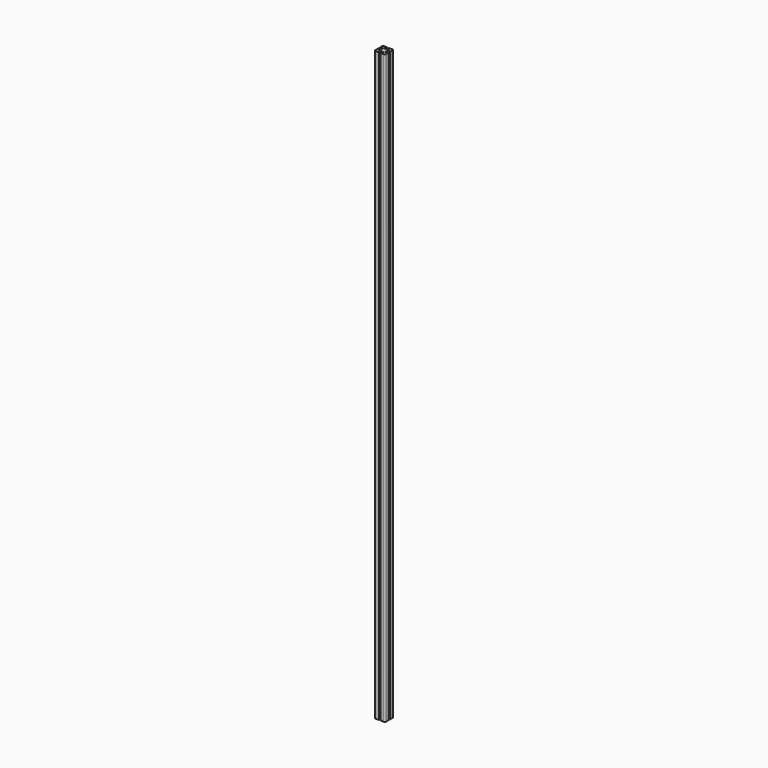
from build123d import *

# Parameters (mm, degrees)
F1_DEPTH = 2200


with BuildPart() as f1:
    # F0 (on Top) → F1 (new body)
    with BuildSketch(Plane.XY):
        with BuildLine():
            Line((-2.5, 20), (-15, 20))
            ThreePointArc((-15, 20), (-18.535534, 18.535534), (-20, 15))
            Line((-20, 15), (-20, 2.5))
            Line((-20, 2.5), (-15, 2.5))
            Line((-15, 2.5), (-15, 7.5))
            Line((-15, 7.5), (-10, 7.5))
            Line((-10, 7.5), (-10, -7.5))
            Line((-10, -7.5), (-15, -7.5))
            Line((-15, -7.5), (-15, -2.5))
            Line((-15, -2.5), (-20, -2.5))
            Line((-20, -2.5), (-20, -15))
            ThreePointArc((-20, -15), (-18.535534, -18.535534), (-15, -20))
            Line((-15, -20), (-2.5, -20))
            Line((-2.5, -20), (-2.5, -15))
            Line((-2.5, -15), (-7.5, -15))
            Line((-7.5, -15), (-7.5, -10))
            Line((-7.5, -10), (7.5, -10))
            Line((7.5, -10), (7.5, -15))
            Line((7.5, -15), (2.5, -15))
            Line((2.5, -15), (2.5, -20))
            Line((2.5, -20), (15, -20))
            ThreePointArc((15, -20), (18.535534, -18.535534), (20, -15))
            Line((20, -15), (20, -2.5))
            Line((20, -2.5), (15, -2.5))
            Line((15, -2.5), (15, -7.5))
            Line((15, -7.5), (10, -7.5))
            Line((10, -7.5), (10, 7.5))
            Line((10, 7.5), (15, 7.5))
            Line((15, 7.5), (15, 2.5))
            Line((15, 2.5), (20, 2.5))
            Line((20, 2.5), (20, 15))
            ThreePointArc((20, 15), (18.535534, 18.535534), (15, 20))
            Line((15, 20), (2.5, 20))
            Line((2.5, 20), (2.5, 15))
            Line((2.5, 15), (7.5, 15))
            Line((7.5, 15), (7.5, 10))
            Line((7.5, 10), (-7.5, 10))
            Line((-7.5, 10), (-7.5, 15))
            Line((-7.5, 15), (-2.5, 15))
            Line((-2.5, 15), (-2.5, 20))
        make_face()
    extrude(amount=F1_DEPTH)


solid = f1.part
